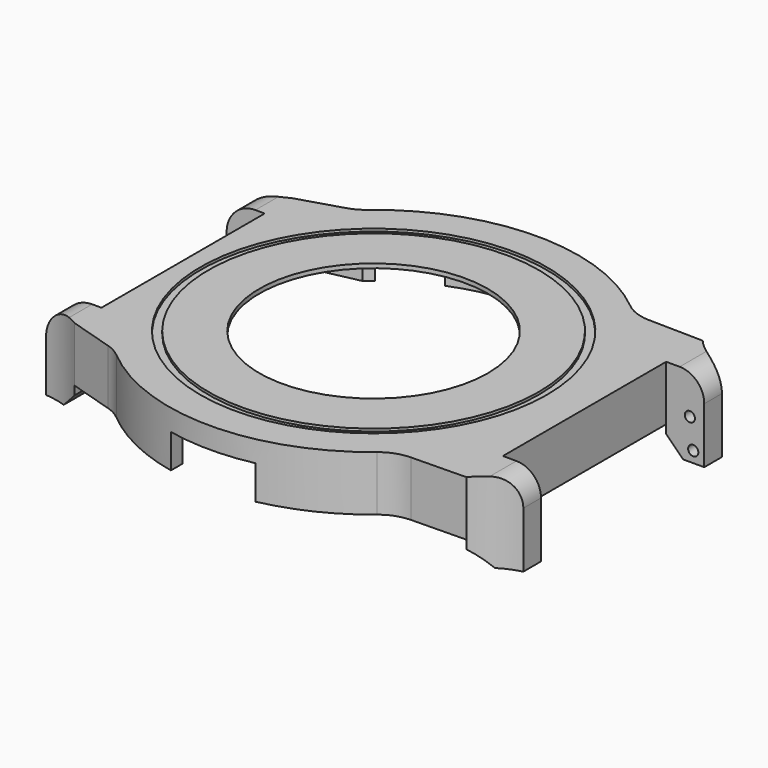
from build123d import *

# Parameters (mm, degrees)
PAD_DEPTH       = 6.5
POCKET_DEPTH    = 6
SKETCH002_R     = 13.5
POCKET001_DEPTH = 1
SKETCH003_W     = 5.4
SKETCH003_H     = 6.5
PAD001_DEPTH    = 4.5
POCKET002_DEPTH = 10
SKETCH008_R     = 0.6
POCKET003_DEPTH = 2
SKETCH009_R     = 0.6
POCKET004_DEPTH = 2
FILLET_R        = 2.9
FILLET001_R     = 2.9
FILLET002_R     = 5
FILLET003_R     = 5
FILLET004_R     = 5
FILLET005_R     = 5
SKETCH010_W     = 3.95
SKETCH010_H     = 6.5
PAD002_DEPTH    = 4.5
POCKET005_DEPTH = 10
SKETCH012_R     = 0.6
POCKET006_DEPTH = 2
SKETCH013_R     = 0.6
POCKET007_DEPTH = 2
FILLET006_R     = 3.4
FILLET007_R     = 3.4
SKETCH014_R     = 20.45
SKETCH014_R_2   = 19.5
POCKET008_DEPTH = 0.3
SKETCH015_R     = 2.2
SKETCH015_R_2   = 0.975
PAD003_DEPTH    = 2
POCKET009_DEPTH = 4
POCKET010_DEPTH = 4
PAD004_DEPTH    = 3
CHAMFER_SIZE    = 2
CHAMFER001_SIZE = 2
CHAMFER002_SIZE = 2
CHAMFER003_SIZE = 2
SKETCH019_R     = 0.6
POCKET011_DEPTH = 2
SKETCH020_R     = 0.6
POCKET012_DEPTH = 2


with BuildPart() as part:
    # Sketch → Pad (new body)
    with BuildSketch(Plane.XY):
        with BuildLine():
            Line((-22.5019915649, 16), (-22.5019915649, -16))
            Line((-22.5019915649, -16), (-16.2858834577, -17.9000000001))
            ThreePointArc((-16.2858834577, -17.9000000001), (0.2206895737, -24.1989937004), (16.6096357576, -17.5999999999))
            Line((16.6096357576, -17.5999999999), (24.9082802252, -17.45))
            Line((24.9082802252, 17.45), (24.9082802252, -17.45))
            Line((16.6096357576, 17.6), (24.9082802252, 17.45))
            ThreePointArc((16.6096357576, 17.6), (0.2206895736, 24.1989937004), (-16.2858834578, 17.9))
            Line((-22.5019915649, 16), (-16.2858834578, 17.9))
        make_face()
    extrude(amount=PAD_DEPTH)

    # Sketch001 → Pocket (cut)
    with BuildSketch(Plane.XY):
        with BuildLine():
            Line((-14.8539557021, 16.9), (-21.2122180433, 15.55))
            Line((-21.2122180433, 15.55), (-21.2122180433, -15.55))
            Line((-21.2122180433, -15.55), (-14.8539557021, -16.9))
            ThreePointArc((-14.8539557021, -16.9), (-0.0760301383, -22.4998715423), (14.739402973, -17))
            Line((14.739402973, -17), (23.6191552218, -16.4))
            Line((23.6191552218, 16.4), (23.6191552218, -16.4))
            Line((14.739402973, 17), (23.6191552218, 16.4))
            ThreePointArc((14.739402973, 17), (-0.0760301383, 22.4998715423), (-14.8539557021, 16.9))
        make_face()
    extrude(amount=POCKET_DEPTH, mode=Mode.SUBTRACT)

    # Sketch002 (on Face19 of Pocket) → Pocket001 (cut)
    with BuildSketch(Plane(origin=(0, 0, 6), x_dir=(1, 0, 0), z_dir=(0, 0, -1))):
        Circle(SKETCH002_R)
    extrude(amount=-POCKET001_DEPTH, mode=Mode.SUBTRACT)

    # Sketch003 (on Face7 of Pad) → Pad001 (join)
    with BuildSketch(Plane.YZ.offset(24.9082802252)):
        with Locations((-14.75, 3.25)):
            Rectangle(SKETCH003_W, SKETCH003_H)
        with Locations((14.75, 3.25)):
            Rectangle(SKETCH003_W, SKETCH003_H)
    extrude(amount=PAD001_DEPTH)

    # Sketch006 (on Face22 of Pad001) → Pocket002 (cut)
    with BuildSketch(Plane.XY.offset(6.5)):
        with BuildLine():
            ThreePointArc((24.9082802252, 17.45), (26.9423471239, 15.7065020586), (29.4082802252, 14.6594169811))
            Line((29.4082802252, 17.45), (29.4082802252, 14.6594169811))
            Line((29.4082802252, 17.45), (24.9082802252, 17.45))
        make_face()
        with BuildLine():
            ThreePointArc((29.4082802252, -14.6594169811), (26.9423471239, -15.7065020586), (24.9082802252, -17.45))
            Line((29.4082802252, -17.45), (24.9082802252, -17.45))
            Line((29.4082802252, -14.6594169811), (29.4082802252, -17.45))
        make_face()
    extrude(amount=-POCKET002_DEPTH, mode=Mode.SUBTRACT)

    # Sketch008 (on Face27 of Pocket002) → Pocket003 (cut)
    with BuildSketch(Plane(origin=(0, -12.05, 0), x_dir=(-1, 0, 0), z_dir=(0, 1, 0))):
        with Locations((-27.7082802252, 1.7)):
            Circle(SKETCH008_R)
    extrude(amount=-POCKET003_DEPTH, mode=Mode.SUBTRACT)

    # Sketch009 (on Face26 of Pocket003) → Pocket004 (cut)
    with BuildSketch(Plane.XZ.offset(-12.05)):
        with Locations((27.7082802252, 1.7)):
            Circle(SKETCH009_R)
    extrude(amount=-POCKET004_DEPTH, mode=Mode.SUBTRACT)

    # Fillet
    fillet_edges = [part.edges().sort_by_distance(p)[0] for p in [
        (29.40828, -13.354708, 6.5),
    ]]
    fillet(fillet_edges, radius=FILLET_R)

    # Fillet001
    fillet001_edges = [part.edges().sort_by_distance(p)[0] for p in [
        (29.40828, 13.354708, 6.5),
    ]]
    fillet(fillet001_edges, radius=FILLET001_R)

    # Fillet002
    fillet002_edges = [part.edges().sort_by_distance(p)[0] for p in [
        (16.609636, -17.6, 3.25),
    ]]
    fillet(fillet002_edges, radius=FILLET002_R)

    # Fillet003
    fillet003_edges = [part.edges().sort_by_distance(p)[0] for p in [
        (16.609636, 17.6, 3.25),
    ]]
    fillet(fillet003_edges, radius=FILLET003_R)

    # Fillet004
    fillet004_edges = [part.edges().sort_by_distance(p)[0] for p in [
        (-16.285883, -17.9, 3.25),
    ]]
    fillet(fillet004_edges, radius=FILLET004_R)

    # Fillet005
    fillet005_edges = [part.edges().sort_by_distance(p)[0] for p in [
        (-16.285883, 17.9, 3.25),
    ]]
    fillet(fillet005_edges, radius=FILLET005_R)

    # Sketch010 (on Face3 of Pad) → Pad002 (join)
    with BuildSketch(Plane(origin=(-22.5019915649, 0, 0), x_dir=(0, -1, 0), z_dir=(-1, 0, 0))):
        with Locations((-14.025, 3.25)):
            Rectangle(SKETCH010_W, SKETCH010_H)
        with Locations((14.025, 3.25)):
            Rectangle(SKETCH010_W, SKETCH010_H)
    extrude(amount=PAD002_DEPTH)

    # Sketch011 (on Face6 of Pad002) → Pocket005 (cut)
    with BuildSketch(Plane.XY.offset(6.5)):
        with BuildLine():
            ThreePointArc((-27.0019915649, 14.6), (-24.6759937451, 15.0557212933), (-22.5019915649, 16))
            Line((-22.5019915649, 16), (-27.0019915649, 16))
            Line((-27.0019915649, 16), (-27.0019915649, 14.6))
        make_face()
        with BuildLine():
            ThreePointArc((-22.5019915649, -16), (-24.6759937451, -15.0557212933), (-27.0019915649, -14.6))
            Line((-27.0019915649, -14.6), (-27.0019915649, -16))
            Line((-27.0019915649, -16), (-22.5019915649, -16))
        make_face()
    extrude(amount=-POCKET005_DEPTH, mode=Mode.SUBTRACT)

    # Sketch012 (on Face23 of Pocket005) → Pocket006 (cut)
    with BuildSketch(Plane(origin=(0, -12.05, 0), x_dir=(-1, 0, 0), z_dir=(0, 1, 0))):
        with Locations((25.3019915649, 1.7)):
            Circle(SKETCH012_R)
    extrude(amount=-POCKET006_DEPTH, mode=Mode.SUBTRACT)

    # Sketch013 (on Face21 of Pocket006) → Pocket007 (cut)
    with BuildSketch(Plane.XZ.offset(-12.05)):
        with Locations((-25.3019915649, 1.7)):
            Circle(SKETCH013_R)
    extrude(amount=-POCKET007_DEPTH, mode=Mode.SUBTRACT)

    # Fillet006
    fillet006_edges = [part.edges().sort_by_distance(p)[0] for p in [
        (-27.001992, 13.325, 6.5),
    ]]
    fillet(fillet006_edges, radius=FILLET006_R)

    # Fillet007
    fillet007_edges = [part.edges().sort_by_distance(p)[0] for p in [
        (-27.001992, -13.325, 6.5),
    ]]
    fillet(fillet007_edges, radius=FILLET007_R)

    # Sketch014 (on Face4 of Fillet007) → Pocket008 (cut)
    with BuildSketch(Plane.XY.offset(6.5)):
        Circle(SKETCH014_R)
        Circle(SKETCH014_R_2, mode=Mode.SUBTRACT)
    extrude(amount=-POCKET008_DEPTH, mode=Mode.SUBTRACT)

    # Sketch015 (on Face55 of Pocket008) → Pad003 (join)
    with BuildSketch(Plane(origin=(0, 0, 6), x_dir=(1, 0, 0), z_dir=(0, 0, -1))):
        with Locations((-18.42, 13.32)):
            Circle(SKETCH015_R)
        with Locations((-18.42, 13.32)):
            Circle(SKETCH015_R_2, mode=Mode.SUBTRACT)
        with Locations((7.27, 18.56)):
            Circle(SKETCH015_R)
        with Locations((7.27, 18.56)):
            Circle(SKETCH015_R_2, mode=Mode.SUBTRACT)
        with Locations((5.37, -19.79)):
            Circle(SKETCH015_R)
        with Locations((5.37, -19.79)):
            Circle(SKETCH015_R_2, mode=Mode.SUBTRACT)
        with Locations((-18.42, -13.32)):
            Circle(SKETCH015_R)
        with Locations((-18.42, -13.32)):
            Circle(SKETCH015_R_2, mode=Mode.SUBTRACT)
    extrude(amount=PAD003_DEPTH)

    # Sketch016 → Pocket009 (cut)
    with BuildSketch(Plane(origin=(0, 0, 0), x_dir=(-1, 0, 0), z_dir=(0, 0, 1))):
        with BuildLine():
            Line((-5, 23.6778377391), (-5, 21.9374109685))
            ThreePointArc((5, 21.9374109685), (0, 22.5), (-5, 21.9374109685))
            Line((5, 23.6778377391), (5, 21.9374109685))
            ThreePointArc((5, 23.6778377391), (0, 24.2), (-5, 23.6778377391))
        make_face()
    extrude(amount=POCKET009_DEPTH, mode=Mode.SUBTRACT)

    # Sketch017 → Pocket010 (cut)
    with BuildSketch(Plane(origin=(0, 0, 0), x_dir=(-1, 0, 0), z_dir=(0, 0, 1))):
        with BuildLine():
            Line((-3.499984119, -22.2261132717), (-3.5, -23.9455632634))
            ThreePointArc((-3.5, -23.9455632634), (0, -24.2000019575), (3.5, -23.9455632634))
            Line((3.5000158811, -22.2261082701), (3.5, -23.9455632634))
            ThreePointArc((-3.499984119, -22.2261132717), (1.60767e-05, -22.5), (3.5000158811, -22.2261082701))
        make_face()
        with BuildLine():
            ThreePointArc((-13.9498796389, -17.6536358312), (-11.25, -19.4855715851), (-8.3135572795, -20.9077680626))
            Line((-8.3135572795, -20.9077680626), (-8.9416927184, -22.487466094))
            ThreePointArc((-15.0038705449, -18.987466094), (-12.1, -20.9578147716), (-8.9416927184, -22.487466094))
            Line((-13.9498796389, -17.6536358312), (-15.0038705449, -18.987466094))
        make_face()
        with BuildLine():
            ThreePointArc((8.3135572795, -20.9077680626), (11.25, -19.4855715851), (13.9498796389, -17.6536358312))
            Line((13.9498796389, -17.6536358312), (15.0038705449, -18.987466094))
            ThreePointArc((8.9416927184, -22.487466094), (12.1, -20.9578147716), (15.0038705449, -18.987466094))
            Line((8.3135572795, -20.9077680626), (8.9416927184, -22.487466094))
        make_face()
    extrude(amount=POCKET010_DEPTH, mode=Mode.SUBTRACT)

    # Sketch018 (on Face57 of Pocket010) → Pad004 (join)
    with BuildSketch(Plane(origin=(0, 0, 0), x_dir=(1, 0, 0), z_dir=(0, 0, -1))):
        with BuildLine():
            Line((29.4082802252, 14.6594169811), (29.4082802252, 12.05))
            Line((29.4082802252, 12.05), (24.9082802252, 12.05))
            Line((24.9082802252, 12.05), (24.9082802252, 17.45))
            ThreePointArc((24.9082802252, 17.45), (26.9423471239, 15.7065020586), (29.4082802252, 14.6594169811))
        make_face()
        with BuildLine():
            Line((29.4082802252, -12.05), (24.9082802252, -12.05))
            Line((24.9082802252, -17.45), (24.9082802252, -12.05))
            ThreePointArc((29.4082802252, -14.6594169811), (26.9423471239, -15.7065020586), (24.9082802252, -17.45))
            Line((29.4082802252, -12.05), (29.4082802252, -14.6594169811))
        make_face()
        with BuildLine():
            Line((-27.0019915649, 14.6), (-27.0019915649, 12.05))
            Line((-27.0019915649, 12.05), (-22.5019915649, 12.05))
            Line((-22.5019915649, 16), (-22.5019915649, 12.05))
            ThreePointArc((-27.0019915649, 14.6), (-24.6759937451, 15.0557212933), (-22.5019915649, 16))
        make_face()
        with BuildLine():
            Line((-27.0019915649, -12.05), (-22.5019915649, -12.05))
            Line((-22.5019915649, -12.05), (-22.5019915649, -16))
            ThreePointArc((-22.5019915649, -16), (-24.6759937451, -15.0557212933), (-27.0019915649, -14.6))
            Line((-27.0019915649, -12.05), (-27.0019915649, -14.6))
        make_face()
    extrude(amount=PAD004_DEPTH)

    # Chamfer
    chamfer_edges = [part.edges().sort_by_distance(p)[0] for p in [
        (-22.501992, -14.025, -3),
    ]]
    chamfer(chamfer_edges, length=CHAMFER_SIZE)

    # Chamfer001
    chamfer001_edges = [part.edges().sort_by_distance(p)[0] for p in [
        (-22.501992, 14.025, -3),
    ]]
    chamfer(chamfer001_edges, length=CHAMFER001_SIZE)

    # Chamfer002
    chamfer002_edges = [part.edges().sort_by_distance(p)[0] for p in [
        (24.90828, -14.75, -3),
    ]]
    chamfer(chamfer002_edges, length=CHAMFER002_SIZE)

    # Chamfer003
    chamfer003_edges = [part.edges().sort_by_distance(p)[0] for p in [
        (24.90828, 14.75, -3),
    ]]
    chamfer(chamfer003_edges, length=CHAMFER003_SIZE)

    # Sketch019 (on Face5 of Chamfer003) → Pocket011 (cut)
    with BuildSketch(Plane.XZ.offset(-12.05)):
        with Locations((28.1082802252, -1.7)):
            Circle(SKETCH019_R)
        with Locations((-25.7019915649, -1.7)):
            Circle(SKETCH019_R)
    extrude(amount=-POCKET011_DEPTH, mode=Mode.SUBTRACT)

    # Sketch020 (on Face83 of Pocket011) → Pocket012 (cut)
    with BuildSketch(Plane(origin=(0, -12.05, 0), x_dir=(-1, 0, 0), z_dir=(0, 1, 0))):
        with Locations((25.7019915649, -1.7)):
            Circle(SKETCH020_R)
        with Locations((-28.1082802252, -1.7)):
            Circle(SKETCH020_R)
    extrude(amount=-POCKET012_DEPTH, mode=Mode.SUBTRACT)


solid = part.part
